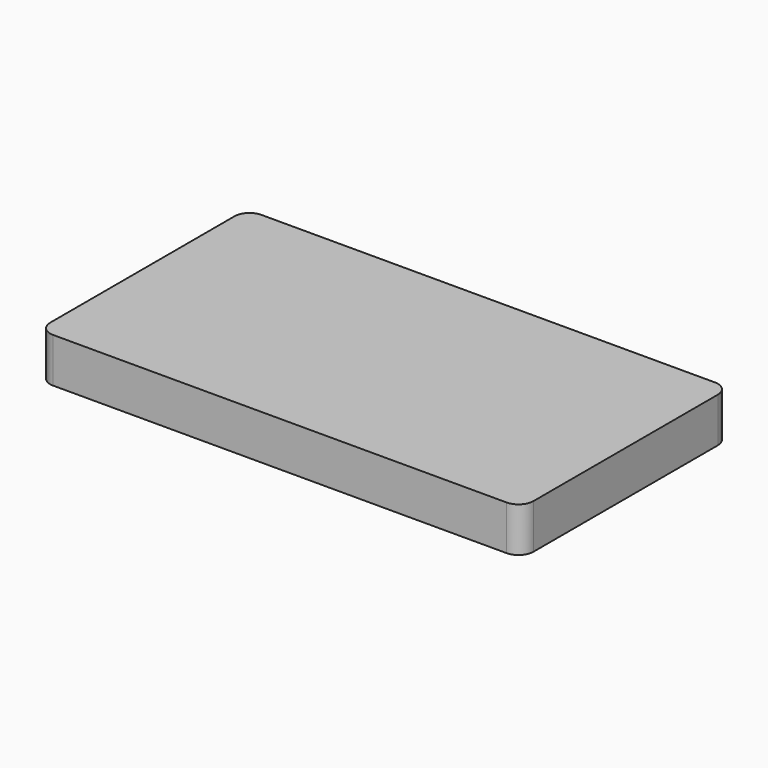
from build123d import *

# Parameters (mm, degrees)
F0_W     = 165.1
F0_H     = 88.9
F1_DEPTH = 15.24
F2_R     = 5.08
F3_R     = 5.08
F4_R     = 5.08
F5_R     = 5.08


with BuildPart() as f1:
    # F0 (on Top) → F1 (new body)
    with BuildSketch(Plane.XY):
        with Locations((-4.219595, 6.348646)):
            Rectangle(F0_W, F0_H)
    extrude(amount=F1_DEPTH)

    # F2
    f2_edges = [f1.edges().sort_by_distance(p)[0] for p in [
        (-86.769595, -38.101354, 7.62),
    ]]
    fillet(f2_edges, radius=F2_R)

    # F3
    f3_edges = [f1.edges().sort_by_distance(p)[0] for p in [
        (78.330405, -38.101354, 7.62),
    ]]
    fillet(f3_edges, radius=F3_R)

    # F4
    f4_edges = [f1.edges().sort_by_distance(p)[0] for p in [
        (78.330405, 50.798646, 7.62),
    ]]
    fillet(f4_edges, radius=F4_R)

    # F5
    f5_edges = [f1.edges().sort_by_distance(p)[0] for p in [
        (-86.769595, 50.798646, 7.62),
    ]]
    fillet(f5_edges, radius=F5_R)


solid = f1.part
